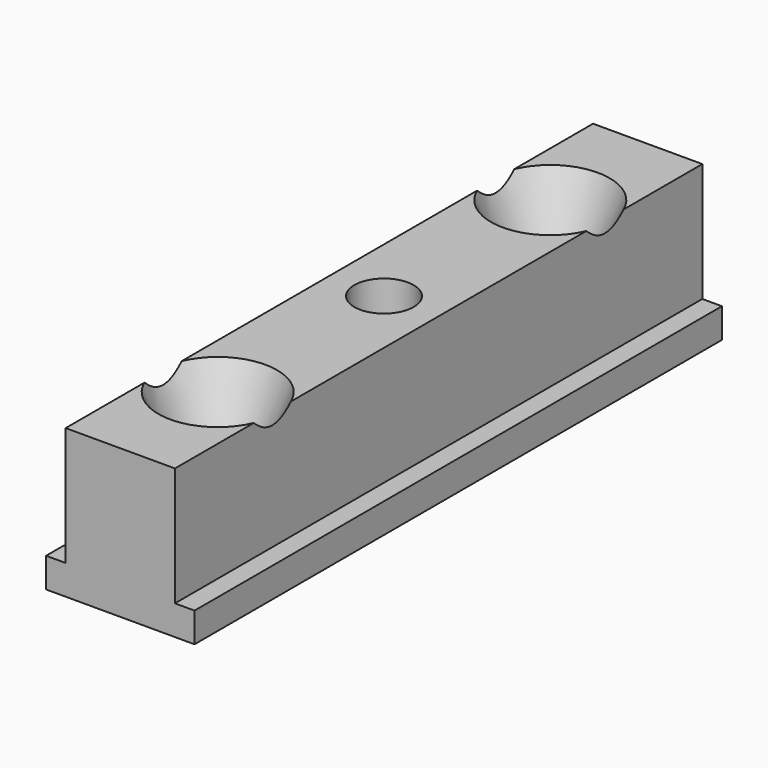
from build123d import *

# Parameters (mm, degrees)
F1_DEPTH       = 11.1
F4_D           = 1.6
F4_CSINK_D     = 4
F4_CSINK_ANGLE = 45
F5_R           = 1
F6_DEPTH       = 3


with BuildPart() as f1:
    # F0 (on Front) → F1 (new body, symmetric)
    with BuildSketch(Plane.XZ):
        Polygon((-2.5, 1), (-2.5, 0), (2.5, 0), (2.5, 1), (1.84, 1), (1.84, 5), (-1.84, 5), (-1.84, 1), align=None)
    extrude(amount=F1_DEPTH, both=True)

    # F4 (through all)
    with Locations(Plane.XY.offset(5)):
        with Locations((0, 7), (0, -7)):
            CounterSinkHole(F4_D / 2, F4_CSINK_D / 2, counter_sink_angle=F4_CSINK_ANGLE)

    # F5 (on face) → F6 (cut)
    with BuildSketch(Plane.XY.offset(5)):
        Circle(F5_R)
    extrude(amount=-F6_DEPTH, mode=Mode.SUBTRACT)


solid = f1.part
